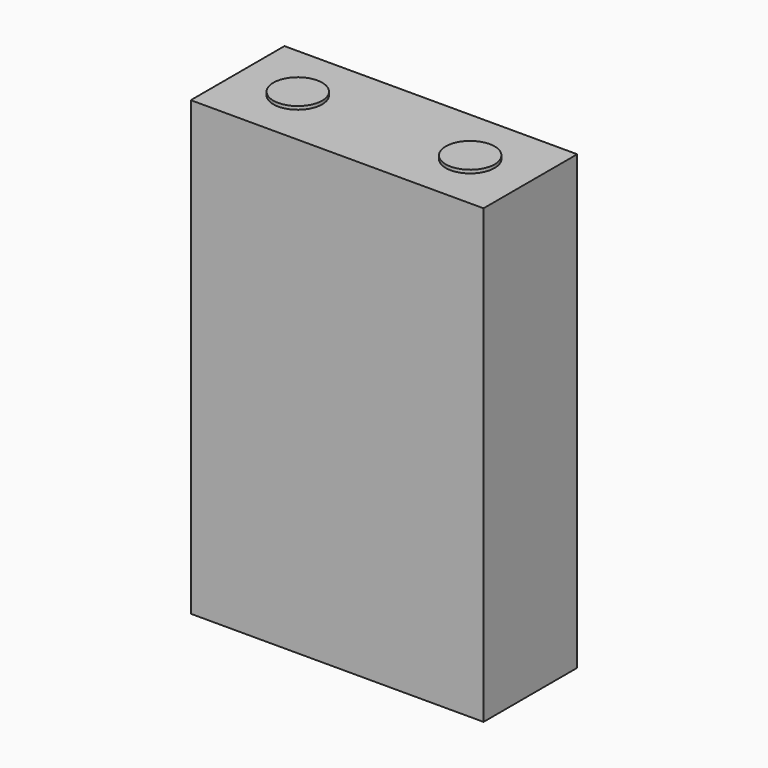
from build123d import *

# Parameters (mm, degrees)
F0_W     = 180
F0_H     = 278
F1_DEPTH = 36
F2_R     = 15
F3_DEPTH = 280


with BuildPart() as f1:
    # F0 (on Front) → F1 (new body, symmetric)
    with BuildSketch(Plane.XZ):
        with Locations((0, 139)):
            Rectangle(F0_W, F0_H)
    extrude(amount=F1_DEPTH, both=True)

    # F2 (on Top) → F3 (join)
    with BuildSketch(Plane.XY):
        with Locations((-53, 0)):
            Circle(F2_R)
        with Locations((53, 0)):
            Circle(F2_R)
    extrude(amount=F3_DEPTH)


solid = f1.part
